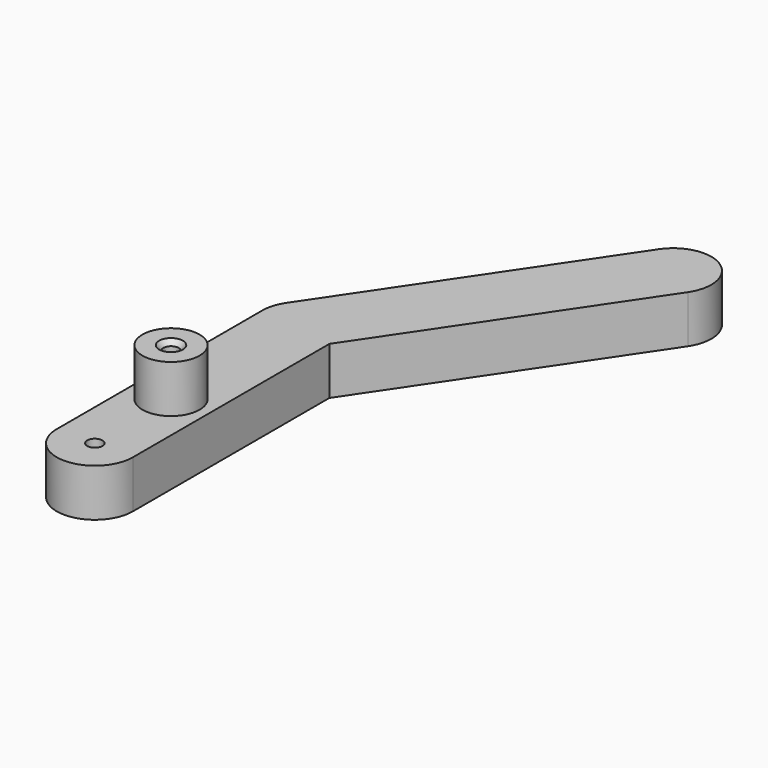
from build123d import *

# Parameters (mm, degrees)
F1_DEPTH       = 6.35
F2_R           = 3.81
F3_DEPTH       = 6.35
F5_D           = 2.032
F5_CSINK_D     = 3.175
F5_CSINK_ANGLE = 82
F6_D           = 2.032


with BuildPart() as f1:
    # F0 (on Top) → F1 (new body)
    with BuildSketch(Plane.XY):
        with BuildLine():
            Line((0, -26.67), (0, -21.59))
            Line((0, -21.59), (0, -16.51))
            ThreePointArc((0, -16.51), (-3.5921024484, -17.9978975516), (-5.08, -21.59))
            ThreePointArc((-5.08, -21.59), (-3.5921024484, -25.1821024484), (0, -26.67))
        make_face()
        with BuildLine():
            Line((0, -16.51), (0, -21.59))
            Line((0, -21.59), (0, -26.67))
            ThreePointArc((0, -26.67), (3.5921024484, -25.1821024484), (5.08, -21.59))
            ThreePointArc((5.08, -21.59), (3.5921024484, -17.9978975516), (0, -16.51))
        make_face()
        with BuildLine():
            ThreePointArc((-5.08, -21.59), (-3.5921024484, -17.9978975516), (0, -16.51))
            Line((0, -16.51), (0, -5.08))
            ThreePointArc((0, -5.08), (-3.5921024484, -3.5921024484), (-5.08, 0))
            Line((-5.08, 0), (-5.08, -21.59))
        make_face()
        with BuildLine():
            Line((0, -5.08), (0, -16.51))
            ThreePointArc((0, -16.51), (3.5921024484, -17.9978975516), (5.08, -21.59))
            Line((5.08, -21.59), (5.08, -1.5531118618))
            Line((5.08, -1.5531118618), (4.2115108686, -2.8406999496))
            ThreePointArc((4.2115108686, -2.8406999496), (2.384915539, -4.4853737717), (0, -5.08))
        make_face()
        with BuildLine():
            ThreePointArc((5.08, -21.59), (3.5921024484, -25.1821024484), (0, -26.67))
            ThreePointArc((0, -26.67), (-3.5921024484, -25.1821024484), (-5.08, -21.59))
            Line((-5.08, -21.59), (-5.08, -34.29))
            ThreePointArc((-5.08, -34.29), (0, -39.37), (5.08, -34.29))
            Line((5.08, -34.29), (5.08, -21.59))
        make_face()
        with BuildLine():
            ThreePointArc((-5.08, 0), (-3.5921024484, -3.5921024484), (0, -5.08))
            Line((0, -5.08), (0, 0))
            Line((0, 0), (2.8406999496, 4.2115108686))
            ThreePointArc((2.8406999496, 4.2115108686), (-0.9693096965, 4.9866660919), (-4.2115108686, 2.8406999496))
            ThreePointArc((-4.2115108686, 2.8406999496), (-4.8580281603, 1.48524826), (-5.08, 0))
        make_face()
        with BuildLine():
            Line((0, 0), (0, -5.08))
            ThreePointArc((0, -5.08), (2.384915539, -4.4853737717), (4.2115108686, -2.8406999496))
            Line((4.2115108686, -2.8406999496), (5.08, -1.5531118618))
            Line((5.08, -1.5531118618), (5.08, 0))
            ThreePointArc((5.08, 0), (4.4853737717, 2.384915539), (2.8406999496, 4.2115108686))
            Line((2.8406999496, 4.2115108686), (0, 0))
        make_face()
        with BuildLine():
            Line((5.08, 0), (5.08, -1.5531118618))
            Line((5.08, -1.5531118618), (26.9371104656, 30.851386999))
            ThreePointArc((26.9371104656, 30.851386999), (25.5662995467, 37.9035978172), (18.5140887285, 36.5327868983))
            Line((18.5140887285, 36.5327868983), (-4.2115108686, 2.8406999496))
            ThreePointArc((-4.2115108686, 2.8406999496), (-0.9693096965, 4.9866660919), (2.8406999496, 4.2115108686))
            ThreePointArc((2.8406999496, 4.2115108686), (4.4853737717, 2.384915539), (5.08, 0))
        make_face()
    extrude(amount=F1_DEPTH)

    # F2 (on face) → F3 (join)
    with BuildSketch(Plane.XY.offset(6.35)):
        with Locations((0, -21.59)):
            Circle(F2_R)
    extrude(amount=F3_DEPTH)

    # F5 (through all)
    with Locations(Plane.XY.offset(12.7)):
        with Locations((0, -21.59)):
            CounterSinkHole(F5_D / 2, F5_CSINK_D / 2, counter_sink_angle=F5_CSINK_ANGLE)

    # F6 (through all)
    with Locations(Plane(origin=(0, 0, 0), x_dir=(1, 0, 0), z_dir=(0, 0, -1))):
        with Locations((0, 34.29)):
            Hole(F6_D / 2)


solid = f1.part
